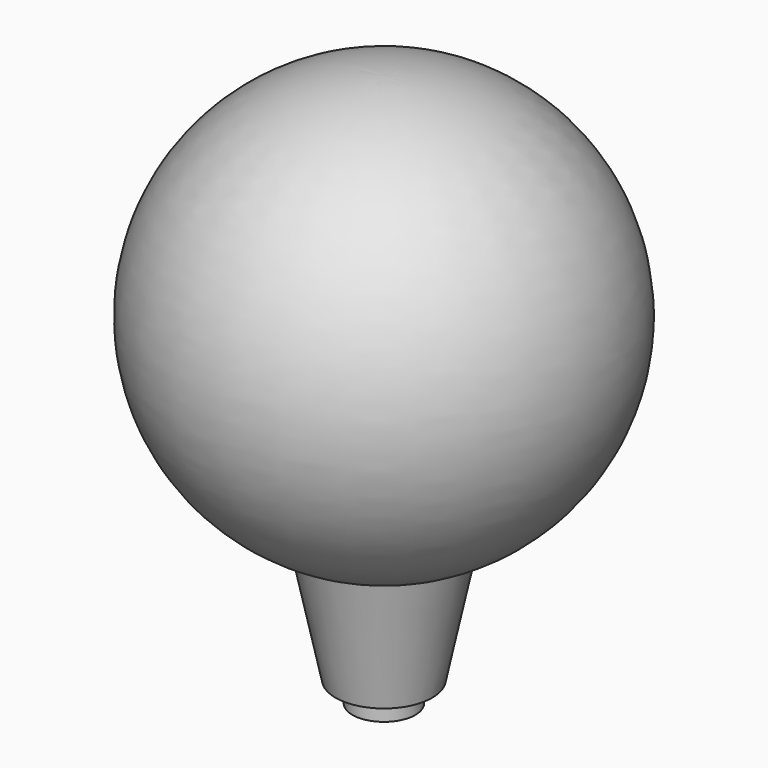
from build123d import *

# Parameters (mm, degrees)
F2_R     = 9.333305
F3_DEPTH = 6.1


with BuildPart() as f1:
    # F0 (on Front) → F1 (revolve)
    with BuildSketch(Plane.XZ):
        with BuildLine():
            Line((0, -32.536652), (0, 0))
            Line((0, 0), (0, 125))
            ThreePointArc((0, 125), (-61.489961, 73.690828), (-22.019955, 4.007509))
            Line((-22.019955, 4.007509), (-14.333305, -32.536652))
            Line((-14.333305, -32.536652), (0, -32.536652))
        make_face()
    revolve(axis=Axis((0, 0, 62.5), (0, 0, 1)))

    # F2 (on face) → F3 (join)
    with BuildSketch(Plane(origin=(0, 0, -32.536652), x_dir=(1, 0, 0), z_dir=(0, 0, -1))):
        Circle(F2_R)
    extrude(amount=F3_DEPTH)


solid = f1.part
